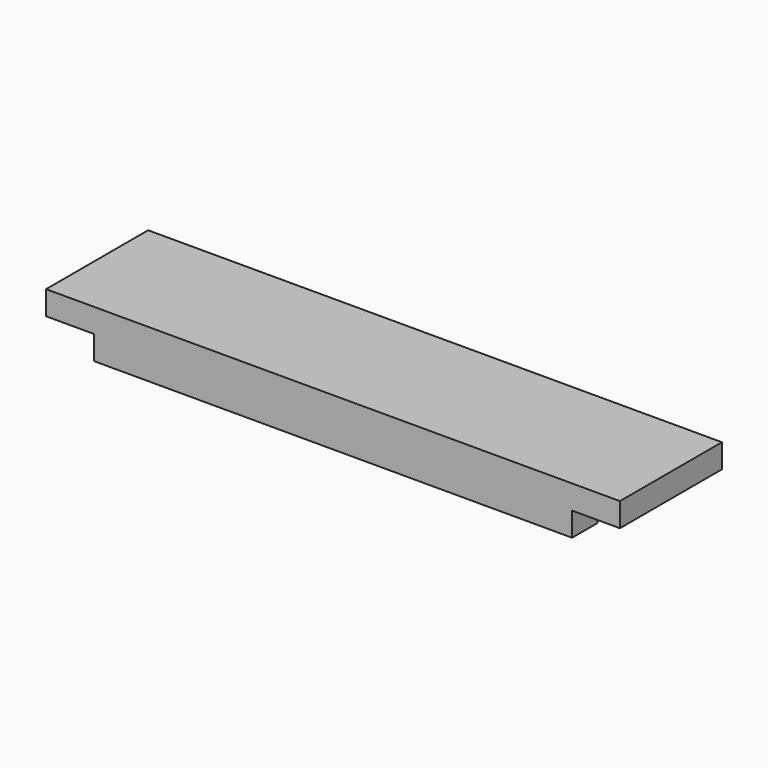
from build123d import *

# Parameters (mm, degrees)
F0_W     = 190.5
F0_H     = 19.05
F0_W_2   = 19.05
F0_H_2   = 12.7
F1_DEPTH = 9.525
F2_DEPTH = 9.525


with BuildPart() as f1:
    # F0 (on Top) → F1 (new body)
    with BuildSketch(Plane.XY):
        with Locations((-169.8625, 17.4625)):
            Rectangle(F0_W, F0_H)
        with Locations((-274.6375, 17.4625)):
            Rectangle(F0_W_2, F0_H)
        with Locations((-169.8625, -1.5875)):
            Rectangle(F0_W, F0_H)
        with Locations((-169.8625, -17.4625)):
            Rectangle(F0_W, F0_H_2)
        with Locations((-274.6375, -17.4625)):
            Rectangle(F0_W_2, F0_H_2)
        with Locations((-274.6375, -1.5875)):
            Rectangle(F0_W_2, F0_H)
        with Locations((-65.0875, 17.4625)):
            Rectangle(F0_W_2, F0_H)
        with Locations((-65.0875, -17.4625)):
            Rectangle(F0_W_2, F0_H_2)
        with Locations((-65.0875, -1.5875)):
            Rectangle(F0_W_2, F0_H)
    extrude(amount=F1_DEPTH)

    # F0 (on Top) → F2 (join)
    with BuildSketch(Plane.XY):
        with Locations((-169.8625, 17.4625)):
            Rectangle(F0_W, F0_H)
        with Locations((-169.8625, -17.4625)):
            Rectangle(F0_W, F0_H_2)
    extrude(amount=-F2_DEPTH)


solid = f1.part
